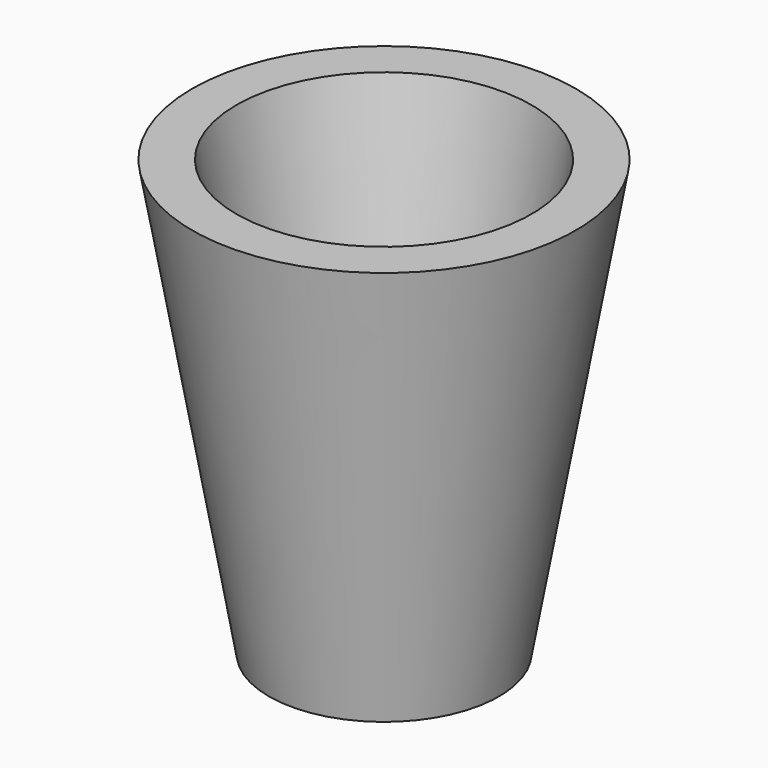
from build123d import *


with BuildPart() as f1:
    # F0 (on Front) → F1 (revolve)
    with BuildSketch(Plane.XZ):
        Polygon((0, -20.72491), (0, 35.987908), (-25, 35.987908), (-15, -20.72491), align=None)
    revolve(axis=Axis((0, 0, 2.765891), (0, 0, -1)))

    # F2 (on Front) → F3 (revolve, cut)
    with BuildSketch(Plane.XZ):
        Polygon((0, -16.433812), (0, 40.279006), (-20, 40.279006), (-10, -16.433812), align=None)
    revolve(axis=Axis((0, 0, 3.789008), (0, 0, -1)), mode=Mode.SUBTRACT)


solid = f1.part
